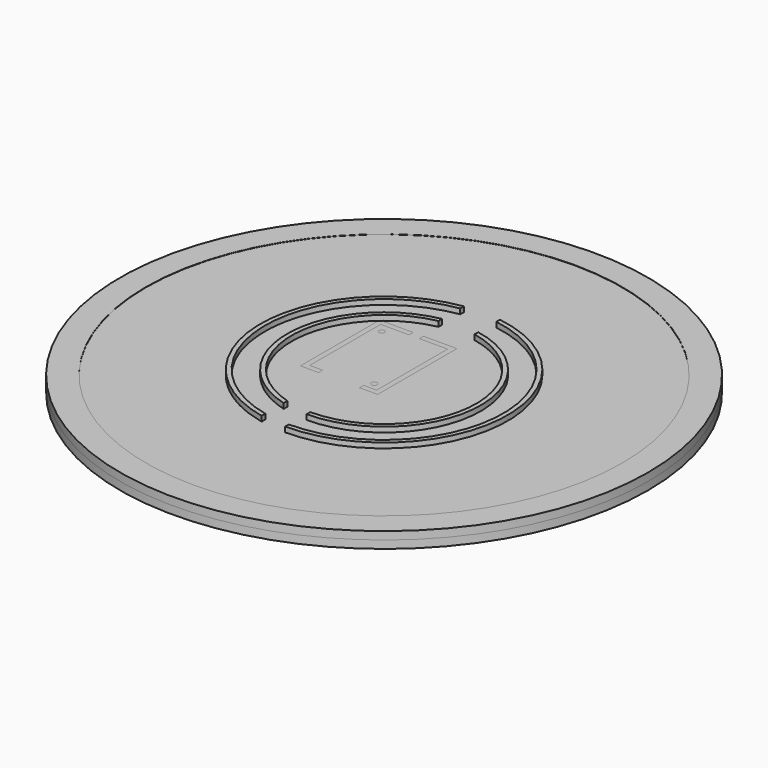
from build123d import *

# Parameters (mm, degrees)
CYLINDER_R        = 92.5
CYLINDER_DEPTH    = 3
CYLINDER002_R     = 92.5
CYLINDER002_DEPTH = 3.05
CYLINDER001_R     = 102.5
CYLINDER001_DEPTH = 3.05
CYLINDER003_R     = 102.5
CYLINDER003_DEPTH = 3.05
CYLINDER004_R     = 92.5
CYLINDER004_DEPTH = 3
CYLINDER005_R     = 92.5
CYLINDER005_DEPTH = 3
CYLINDER006_R     = 77.5
CYLINDER006_DEPTH = 3
CYLINDER007_R     = 86.5
CYLINDER007_DEPTH = 3
CYLINDER014_R     = 1.1
CYLINDER014_DEPTH = 3
CYLINDER015_R     = 1.15
CYLINDER015_DEPTH = 3
CYLINDER016_R     = 1.75
CYLINDER016_DEPTH = 2
CYLINDER017_R     = 1.875
CYLINDER017_DEPTH = 2
BOX004_W          = 26
BOX004_H          = 2
BOX004_DEPTH      = 2
BOX006_W          = 2
BOX006_H          = 34.5
BOX006_DEPTH      = 5
BOX007_W          = 2
BOX007_H          = 34.5
BOX007_DEPTH      = 5
BOX009_W          = 7
BOX009_H          = 2
BOX009_DEPTH      = 5
BOX010_W          = 7
BOX010_H          = 2
BOX010_DEPTH      = 5
BOX011_W          = 4
BOX011_H          = 4
BOX011_DEPTH      = 5
BOX005_W          = 26
BOX005_H          = 2
BOX005_DEPTH      = 2
BOX003_W          = 14
BOX003_H          = 29.5
BOX003_DEPTH      = 2
BOX002_W          = 26
BOX002_H          = 34.5
BOX002_DEPTH      = 2
BOX008_W          = 30
BOX008_H          = 2
BOX008_DEPTH      = 5
CYLINDER018_R     = 48
CYLINDER018_DEPTH = 2
BOX001_W          = 14
BOX001_H          = 15
BOX001_DEPTH      = 5
CYLINDER019_R     = 35.85
CYLINDER019_DEPTH = 1
CYLINDER020_R     = 48
CYLINDER020_DEPTH = 1
BOX012_W          = 10
BOX012_H          = 16
BOX012_DEPTH      = 3
BOX_W             = 14
BOX_H             = 15
BOX_DEPTH         = 5
CYLINDER009_R     = 37.6
CYLINDER009_DEPTH = 3
CYLINDER008_R     = 46.25
CYLINDER008_DEPTH = 3
CYLINDER011_R     = 35.85
CYLINDER011_DEPTH = 3
CYLINDER010_R     = 48
CYLINDER010_DEPTH = 3
CYLINDER013_R     = 35.85
CYLINDER013_DEPTH = 2
CYLINDER012_R     = 48
CYLINDER012_DEPTH = 2


with BuildPart() as astronaut:
    # Cylinder → Cylinder (new body)
    with BuildSketch(Plane.XY):
        Circle(CYLINDER_R)
    extrude(amount=CYLINDER_DEPTH)


with BuildPart() as cylinder002:
    # Cylinder002 → Cylinder002 (new body)
    with BuildSketch(Plane.XY):
        Circle(CYLINDER002_R)
    extrude(amount=CYLINDER002_DEPTH)


with BuildPart() as standoff_base:
    # Cylinder001 → Cylinder001 (new body)
    with BuildSketch(Plane.XY):
        Circle(CYLINDER001_R)
    extrude(amount=CYLINDER001_DEPTH)

    # Cut: cut Cylinder002
    add(cylinder002.part, mode=Mode.SUBTRACT)


with BuildPart() as standoff_base_1:
    # Cut placement: moved
    add(standoff_base.part.moved(Location((0, 0, 3.05))))


with BuildPart() as backplate_base:
    # Cylinder003 → Cylinder003 (new body)
    with BuildSketch(Plane.XY):
        Circle(CYLINDER003_R)
    extrude(amount=CYLINDER003_DEPTH)


with BuildPart() as cylinder004:
    # Cylinder004 → Cylinder004 (new body)
    with BuildSketch(Plane.XY):
        Circle(CYLINDER004_R)
    extrude(amount=CYLINDER004_DEPTH)


with BuildPart() as cylinder005:
    # Cylinder005 → Cylinder005 (new body)
    with BuildSketch(Plane.XY.offset(3)):
        Circle(CYLINDER005_R)
    extrude(amount=CYLINDER005_DEPTH)


with BuildPart() as cylinder006:
    # Cylinder006 → Cylinder006 (new body)
    with BuildSketch(Plane.XY):
        Circle(CYLINDER006_R)
    extrude(amount=CYLINDER006_DEPTH)


with BuildPart() as large_led_ring:
    # Cylinder007 → Cylinder007 (new body)
    with BuildSketch(Plane.XY):
        Circle(CYLINDER007_R)
    extrude(amount=CYLINDER007_DEPTH)

    # Cut001: cut Cylinder006
    add(cylinder006.part, mode=Mode.SUBTRACT)


with BuildPart() as cylinder014:
    # Cylinder014 → Cylinder014 (new body)
    with BuildSketch(Plane(origin=(3.2, 31.03, 2), x_dir=(1, 0, 0), z_dir=(0, 0, 1))):
        Circle(CYLINDER014_R)
    extrude(amount=CYLINDER014_DEPTH)


with BuildPart() as cylinder015:
    # Cylinder015 → Cylinder015 (new body)
    with BuildSketch(Plane(origin=(22.82, 2.88, 2), x_dir=(1, 0, 0), z_dir=(0, 0, 1))):
        Circle(CYLINDER015_R)
    extrude(amount=CYLINDER015_DEPTH)


with BuildPart() as cylinder016:
    # Cylinder016 → Cylinder016 (new body)
    with BuildSketch(Plane(origin=(3.18, 31.03, 2), x_dir=(1, 0, 0), z_dir=(0, 0, 1))):
        Circle(CYLINDER016_R)
    extrude(amount=CYLINDER016_DEPTH)


with BuildPart() as cylinder017:
    # Cylinder017 → Cylinder017 (new body)
    with BuildSketch(Plane(origin=(22.82, 2.88, 2), x_dir=(1, 0, 0), z_dir=(0, 0, 1))):
        Circle(CYLINDER017_R)
    extrude(amount=CYLINDER017_DEPTH)


with BuildPart() as cube004:
    # Box004 → Box004 (new body)
    with BuildSketch(Plane.XY.offset(2)):
        with Locations((13, 1)):
            Rectangle(BOX004_W, BOX004_H)
    extrude(amount=BOX004_DEPTH)


with BuildPart() as cube006:
    # Box006 → Box006 (new body)
    with BuildSketch(Plane(origin=(-2, 0, 0), x_dir=(1, 0, 0), z_dir=(0, 0, 1))):
        with Locations((1, 17.25)):
            Rectangle(BOX006_W, BOX006_H)
    extrude(amount=BOX006_DEPTH)


with BuildPart() as cube007:
    # Box007 → Box007 (new body)
    with BuildSketch(Plane(origin=(26, 0, 0), x_dir=(1, 0, 0), z_dir=(0, 0, 1))):
        with Locations((1, 17.25)):
            Rectangle(BOX007_W, BOX007_H)
    extrude(amount=BOX007_DEPTH)


with BuildPart() as cube009:
    # Box009 → Box009 (new body)
    with BuildSketch(Plane(origin=(-2, -2, 0), x_dir=(1, 0, 0), z_dir=(0, 0, 1))):
        with Locations((3.5, 1)):
            Rectangle(BOX009_W, BOX009_H)
    extrude(amount=BOX009_DEPTH)


with BuildPart() as cube010:
    # Box010 → Box010 (new body)
    with BuildSketch(Plane(origin=(21, -2, 0), x_dir=(1, 0, 0), z_dir=(0, 0, 1))):
        with Locations((3.5, 1)):
            Rectangle(BOX010_W, BOX010_H)
    extrude(amount=BOX010_DEPTH)


with BuildPart() as removal_hole:
    # Box011 → Box011 (new body)
    with BuildSketch(Plane(origin=(11, 32.5, 0), x_dir=(1, 0, 0), z_dir=(0, 0, 1))):
        with Locations((2, 2)):
            Rectangle(BOX011_W, BOX011_H)
    extrude(amount=BOX011_DEPTH)


with BuildPart() as cut009:
    # Box005 → Box005 (new body)
    with BuildSketch(Plane(origin=(0, 32.5, 2), x_dir=(1, 0, 0), z_dir=(0, 0, 1))):
        with Locations((13, 1)):
            Rectangle(BOX005_W, BOX005_H)
    extrude(amount=BOX005_DEPTH)

    # Cut009: cut Removal hole
    add(removal_hole.part, mode=Mode.SUBTRACT)


with BuildPart() as cube003:
    # Box003 → Box003 (new body)
    with BuildSketch(Plane(origin=(6, 3, 0), x_dir=(1, 0, 0), z_dir=(0, 0, 1))):
        with Locations((7, 14.75)):
            Rectangle(BOX003_W, BOX003_H)
    extrude(amount=BOX003_DEPTH)


with BuildPart() as cut010:
    # Box002 → Box002 (new body)
    with BuildSketch(Plane.XY):
        with Locations((13, 17.25)):
            Rectangle(BOX002_W, BOX002_H)
    extrude(amount=BOX002_DEPTH)

    # Cut008: cut Cube003
    add(cube003.part, mode=Mode.SUBTRACT)

    # Cut010: cut Removal hole
    add(removal_hole.part, mode=Mode.SUBTRACT)


with BuildPart() as d1_stand_with_backing:
    # Box008 → Box008 (new body)
    with BuildSketch(Plane(origin=(-2, 34.5, 0), x_dir=(1, 0, 0), z_dir=(0, 0, 1))):
        with Locations((15, 1)):
            Rectangle(BOX008_W, BOX008_H)
    extrude(amount=BOX008_DEPTH)

    # Cut011: cut Removal hole
    add(removal_hole.part, mode=Mode.SUBTRACT)

    # Fusion001: union Cylinder014, Cylinder015, Cylinder016, Cylinder017, Cube004, Cube006, Cube007, Cube009, Cube010, Cut009, Cut010
    add(cylinder014.part)
    add(cylinder015.part)
    add(cylinder016.part)
    add(cylinder017.part)
    add(cube004.part)
    add(cube006.part)
    add(cube007.part)
    add(cube009.part)
    add(cube010.part)
    add(cut009.part)
    add(cut010.part)


with BuildPart() as d1_stand_with_backing_1:
    # Fusion001 placement: moved
    add(d1_stand_with_backing.part.moved(Location((-21.7, -9, 1))))


with BuildPart() as cylinder018:
    # Cylinder018 → Cylinder018 (new body)
    with BuildSketch(Plane.XY):
        Circle(CYLINDER018_R)
    extrude(amount=CYLINDER018_DEPTH)


with BuildPart() as cube001:
    # Box001 → Box001 (new body)
    with BuildSketch(Plane(origin=(-7, 34, -2), x_dir=(1, 0, 0), z_dir=(0, 0, 1))):
        with Locations((7, 7.5)):
            Rectangle(BOX001_W, BOX001_H)
    extrude(amount=BOX001_DEPTH)


with BuildPart() as cylinder019:
    # Cylinder019 → Cylinder019 (new body)
    with BuildSketch(Plane.XY.offset(2)):
        Circle(CYLINDER019_R)
    extrude(amount=CYLINDER019_DEPTH)


with BuildPart() as cut013:
    # Cylinder020 → Cylinder020 (new body)
    with BuildSketch(Plane.XY.offset(2)):
        Circle(CYLINDER020_R)
    extrude(amount=CYLINDER020_DEPTH)

    # Cut012: cut Cylinder019
    add(cylinder019.part, mode=Mode.SUBTRACT)

    # Cut013: cut Cube001
    add(cube001.part, mode=Mode.SUBTRACT)


with BuildPart() as cube011:
    # Box012 → Box012 (new body)
    with BuildSketch(Plane(origin=(-10, -49, 5.5), x_dir=(1, 0, 0), z_dir=(0, 0, 1))):
        with Locations((5, 8)):
            Rectangle(BOX012_W, BOX012_H)
    extrude(amount=BOX012_DEPTH)


with BuildPart() as cube:
    # Box → Box (new body)
    with BuildSketch(Plane(origin=(-7, 34, -2), x_dir=(1, 0, 0), z_dir=(0, 0, 1))):
        with Locations((7, 7.5)):
            Rectangle(BOX_W, BOX_H)
    extrude(amount=BOX_DEPTH)


with BuildPart() as cylinder009:
    # Cylinder009 → Cylinder009 (new body)
    with BuildSketch(Plane.XY):
        Circle(CYLINDER009_R)
    extrude(amount=CYLINDER009_DEPTH)


with BuildPart() as small_led_ring:
    # Cylinder008 → Cylinder008 (new body)
    with BuildSketch(Plane.XY):
        Circle(CYLINDER008_R)
    extrude(amount=CYLINDER008_DEPTH)

    # Cut002: cut Cylinder009
    add(cylinder009.part, mode=Mode.SUBTRACT)


with BuildPart() as cylinder011:
    # Cylinder011 → Cylinder011 (new body)
    with BuildSketch(Plane.XY):
        Circle(CYLINDER011_R)
    extrude(amount=CYLINDER011_DEPTH)


with BuildPart() as cut005:
    # Cylinder010 → Cylinder010 (new body)
    with BuildSketch(Plane.XY):
        Circle(CYLINDER010_R)
    extrude(amount=CYLINDER010_DEPTH)

    # Cut003: cut Cylinder011
    add(cylinder011.part, mode=Mode.SUBTRACT)

    # Cut004: cut Small LED Ring
    add(small_led_ring.part, mode=Mode.SUBTRACT)

    # Cut005: cut Cube
    add(cube.part, mode=Mode.SUBTRACT)


with BuildPart() as cylinder013:
    # Cylinder013 → Cylinder013 (new body)
    with BuildSketch(Plane.XY.offset(-2)):
        Circle(CYLINDER013_R)
    extrude(amount=CYLINDER013_DEPTH)


with BuildPart() as small_ring_track_with_usb_cut:
    # Cylinder012 → Cylinder012 (new body)
    with BuildSketch(Plane.XY.offset(-2)):
        Circle(CYLINDER012_R)
    extrude(amount=CYLINDER012_DEPTH)

    # Cut006: cut Cylinder013
    add(cylinder013.part, mode=Mode.SUBTRACT)

    # Cut007: cut Cube001
    add(cube001.part, mode=Mode.SUBTRACT)

    # Fusion: union Cut005
    add(cut005.part)


with BuildPart() as small_ring_track_with_usb_cut_1:
    # Fusion placement: moved
    add(small_ring_track_with_usb_cut.part.moved(Location((0, 0, 5))))

    # Cut014: cut Cube011
    add(cube011.part, mode=Mode.SUBTRACT)


solid = Compound([astronaut.part, standoff_base_1.part, backplate_base.part, cylinder004.part, cylinder005.part, large_led_ring.part, d1_stand_with_backing_1.part, cylinder018.part, cut013.part, small_ring_track_with_usb_cut_1.part])
